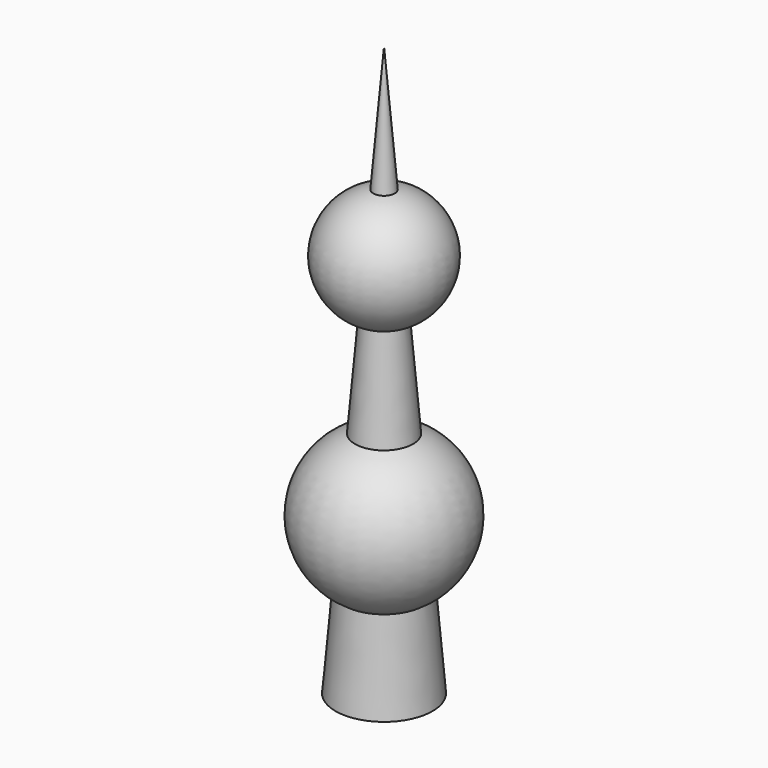
from build123d import *


with BuildPart() as f1:
    # F0 (on Front) → F1 (revolve)
    with BuildSketch(Plane.XZ):
        with BuildLine():
            Line((-17.482342, 0), (0, 0))
            Line((0, 0), (0, 205.466166))
            Line((0, 205.466166), (-3.873105, 159.946406))
            ThreePointArc((-3.873105, 159.946406), (-21.304814, 140.731072), (-7.370108, 118.846887))
            Line((-7.370108, 118.846887), (-10.460571, 82.525355))
            ThreePointArc((-10.460571, 82.525355), (-27.916849, 58.908982), (-14.70148, 32.682873))
            Line((-14.70148, 32.682873), (-17.482342, 0))
        make_face()
    revolve(axis=Axis((0, 0, 102.733083), (0, 0, -1)))


solid = f1.part
